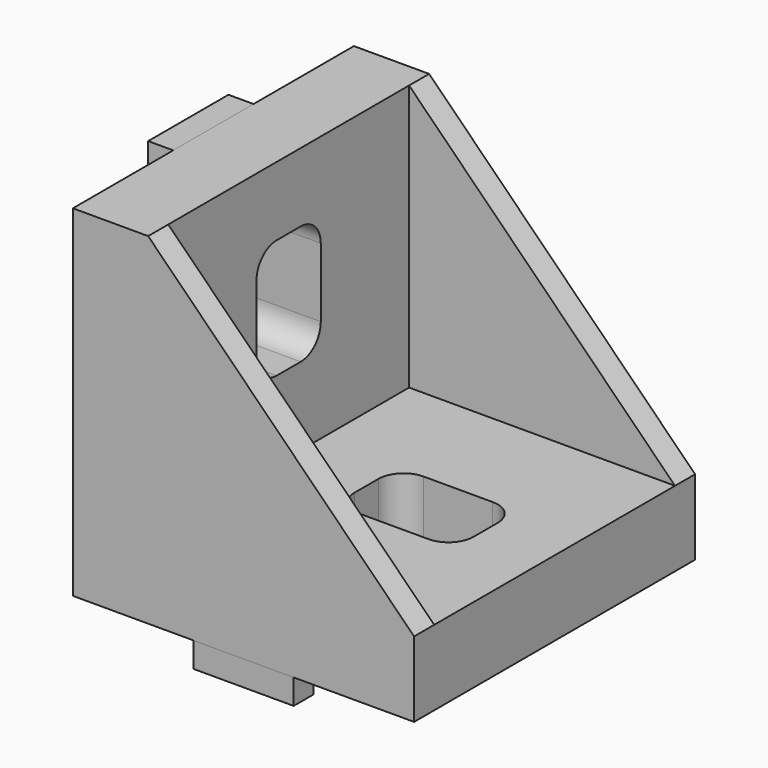
from build123d import *

# Parameters (mm, degrees)
BOX002_W                  = 8
BOX002_H                  = 2
BOX002_DEPTH              = 2
BOX003_W                  = 8
BOX003_H                  = 2
BOX003_DEPTH              = 2
BOX004_W                  = 2
BOX004_H                  = 8
BOX004_DEPTH              = 2
BOX005_W                  = 2
BOX005_H                  = 8
BOX005_DEPTH              = 2
FUSION002_PLACEMENT_ANGLE = 90
BOX_W                     = 9.5
BOX_H                     = 6.4
BOX_DEPTH                 = 6
BOX001_W                  = 9.5
BOX001_H                  = 6.4
BOX001_DEPTH              = 6
COMPOUND_PLACEMENT_ANGLE  = 90
PAD001_DEPTH              = 24
PAD_DEPTH                 = 28
FILLET_R                  = 2


with BuildPart() as cube002:
    # Box002 → Box002 (new body)
    with BuildSketch(Plane(origin=(9.6, -2, -2), x_dir=(1, 0, 0), z_dir=(0, 0, 1))):
        with Locations((4, 1)):
            Rectangle(BOX002_W, BOX002_H)
    extrude(amount=BOX002_DEPTH)


with BuildPart() as fusion001:
    # Box003 → Box003 (new body)
    with BuildSketch(Plane(origin=(9.6, -28, -2), x_dir=(1, 0, 0), z_dir=(0, 0, 1))):
        with Locations((4, 1)):
            Rectangle(BOX003_W, BOX003_H)
    extrude(amount=BOX003_DEPTH)

    # Fusion001: union Cube002
    add(cube002.part)


with BuildPart() as cube004:
    # Box004 → Box004 (new body)
    with BuildSketch(Plane(origin=(0, -18, -2), x_dir=(1, 0, 0), z_dir=(0, 0, 1))):
        with Locations((1, 4)):
            Rectangle(BOX004_W, BOX004_H)
    extrude(amount=BOX004_DEPTH)


with BuildPart() as slotguide:
    # Box005 → Box005 (new body)
    with BuildSketch(Plane(origin=(25.2, -18, -2), x_dir=(1, 0, 0), z_dir=(0, 0, 1))):
        with Locations((1, 4)):
            Rectangle(BOX005_W, BOX005_H)
    extrude(amount=BOX005_DEPTH)

    # Fusion002: union Cube004
    add(cube004.part)


with BuildPart() as slotguide_1:
    # Fusion002 placement: moved
    add(slotguide.part.moved(Location((-2, 0, 0))).rotate(Axis((-2, 0, 0), (0, -1, 0)), FUSION002_PLACEMENT_ANGLE))

    # Fusion003: union Fusion001
    add(fusion001.part)


with BuildPart() as cube:
    # Box → Box (new body)
    with BuildSketch(Plane(origin=(12.2, -17.2, 0), x_dir=(1, 0, 0), z_dir=(0, 0, 1))):
        with Locations((4.75, 3.2)):
            Rectangle(BOX_W, BOX_H)
    extrude(amount=BOX_DEPTH)


with BuildPart() as fusion:
    # Box001 → Box001 (new body)
    with BuildSketch(Plane(origin=(12.2, -17.2, 0), x_dir=(1, 0, 0), z_dir=(0, 0, 1))):
        with Locations((4.75, 3.2)):
            Rectangle(BOX001_W, BOX001_H)
    extrude(amount=BOX001_DEPTH)


with BuildPart() as fusion_1:
    # Compound placement: moved
    add(fusion.part.moved(Location((6, 0, 0))).rotate(Axis((6, 0, 0), (0, -1, 0)), COMPOUND_PLACEMENT_ANGLE))

    # Fusion: union Cube
    add(cube.part)


with BuildPart() as body001:
    # Sketch001 → Pad001 (new body)
    with BuildSketch(Plane.XZ):
        Polygon((6, 6), (27.2, 6), (6, 27.2), align=None)
    extrude(amount=PAD001_DEPTH)


with BuildPart() as body001_1:
    # Body001 placement: moved
    add(body001.part.moved(Location((0, -2, 0))))


with BuildPart() as filletedbasebracket:
    # Sketch → Pad (new body)
    with BuildSketch(Plane.XZ):
        Polygon((0, 0), (27.2, 0), (27.2, 6), (6, 27.2), (0, 27.2), align=None)
    extrude(amount=PAD_DEPTH)

    # Cut: cut Body001
    add(body001_1.part, mode=Mode.SUBTRACT)

    # Cut001: cut Fusion
    add(fusion_1.part, mode=Mode.SUBTRACT)

    # Fillet
    fillet_edges = [filletedbasebracket.edges().sort_by_distance(p)[0] for p in [
        (12.2, -17.2, 3),
        (12.2, -10.8, 3),
        (21.7, -17.2, 3),
        (21.7, -10.8, 3),
        (3, -10.8, 21.7),
        (3, -10.8, 12.2),
        (3, -17.2, 21.7),
        (3, -17.2, 12.2),
    ]]
    fillet(fillet_edges, radius=FILLET_R)


solid = Compound([slotguide_1.part, filletedbasebracket.part])
